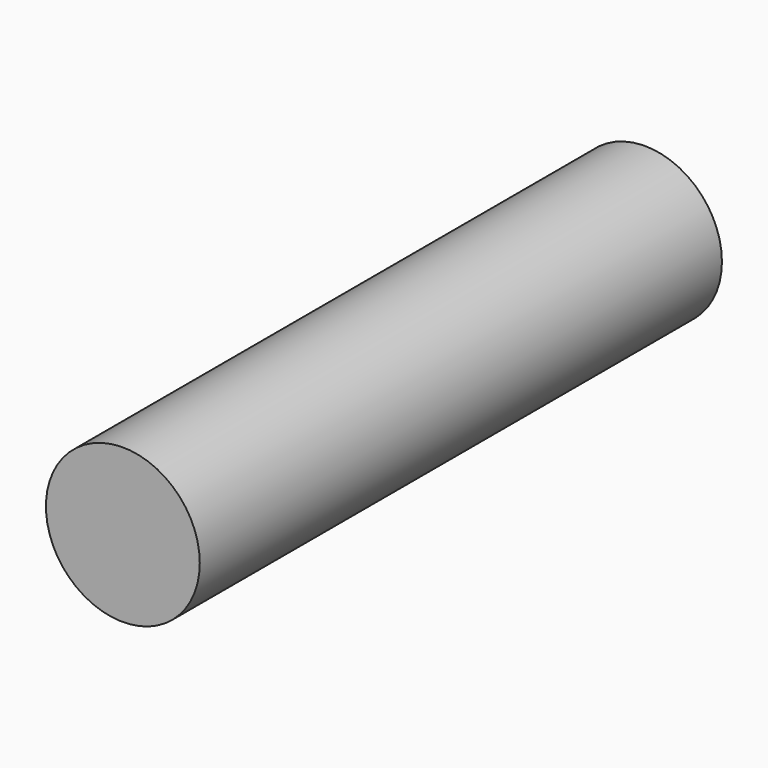
from build123d import *

# Parameters (mm, degrees)
SKETCH_R  = 8.25
PAD_DEPTH = 70


with BuildPart() as part:
    # Sketch → Pad (new body)
    with BuildSketch(Plane.XZ):
        Circle(SKETCH_R)
    extrude(amount=PAD_DEPTH)


solid = part.part
